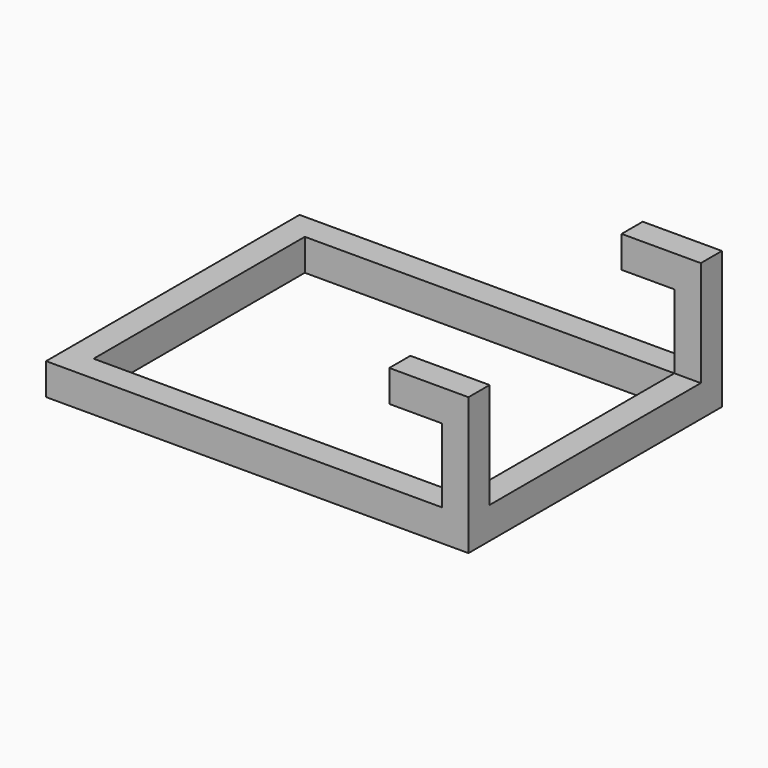
from build123d import *

# Parameters (mm, degrees)
F0_W     = 88.9
F0_H     = 63.5
F1_DEPTH = 7.62
F2_W     = 6.35
F2_H     = 6.35
F3_DEPTH = 25.4
F4_W     = 6.35
F4_H     = 7.62
F5_DEPTH = 12.7
F6_W     = 6.35
F6_H     = 7.62
F7_DEPTH = 12.7


with BuildPart() as f1:
    # F0 (on Top) → F1 (new body)
    with BuildSketch(Plane.XY):
        Polygon((50.8, 38.1), (-50.8, 38.1), (-50.8, -38.1), (50.8, -38.1), (50.8, 4.614057), align=None)
        Rectangle(F0_W, F0_H, mode=Mode.SUBTRACT)
    extrude(amount=F1_DEPTH)

    # F2 (on face) → F3 (join)
    with BuildSketch(Plane.XY.offset(7.62)):
        with Locations((47.625, -34.925)):
            Rectangle(F2_W, F2_H)
        with Locations((47.625, 34.925)):
            Rectangle(F2_W, F2_H)
    extrude(amount=F3_DEPTH)

    # F4 (on face) → F5 (join)
    with BuildSketch(Plane(origin=(44.45, 0, 0), x_dir=(0, -1, 0), z_dir=(-1, 0, 0))):
        with Locations((-34.925, 29.21)):
            Rectangle(F4_W, F4_H)
    extrude(amount=F5_DEPTH)

    # F6 (on face) → F7 (join)
    with BuildSketch(Plane(origin=(44.45, 0, 0), x_dir=(0, -1, 0), z_dir=(-1, 0, 0))):
        with Locations((34.925, 29.21)):
            Rectangle(F6_W, F6_H)
    extrude(amount=F7_DEPTH)


solid = f1.part
